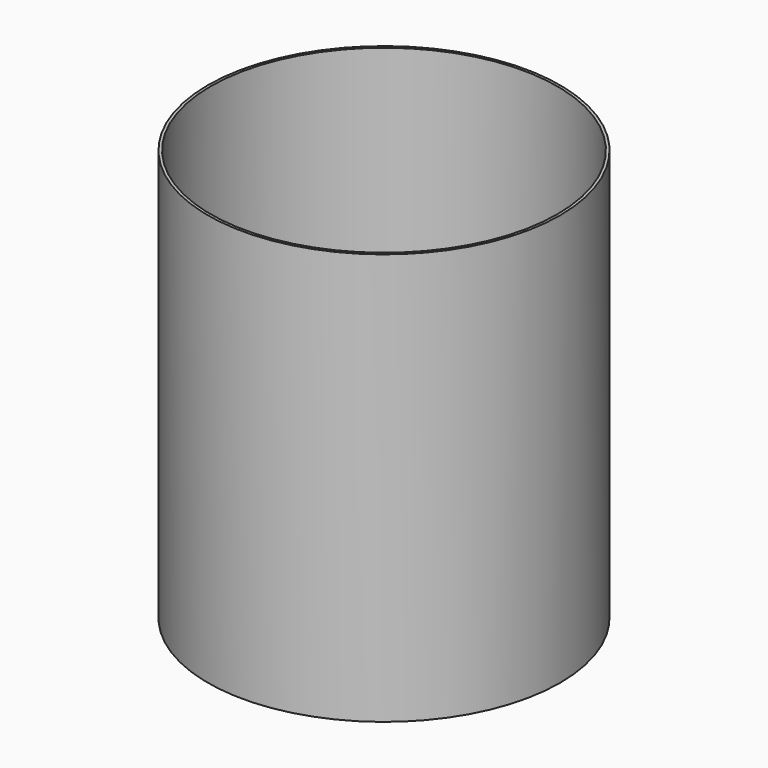
from build123d import *

# Parameters (mm, degrees)
F0_R     = 62.021975
F1_DEPTH = 144.9
F2_T     = -1


with BuildPart() as f1:
    # F0 (on Top) → F1 (new body)
    with BuildSketch(Plane.XY):
        with Locations((3.508497, 0)):
            Circle(F0_R)
    extrude(amount=F1_DEPTH)

    # F2
    f2_openings = [f1.faces().sort_by_distance(p)[0] for p in [
        (3.508497, 0, 144.9),
    ]]
    offset(amount=F2_T, openings=f2_openings)


solid = f1.part
